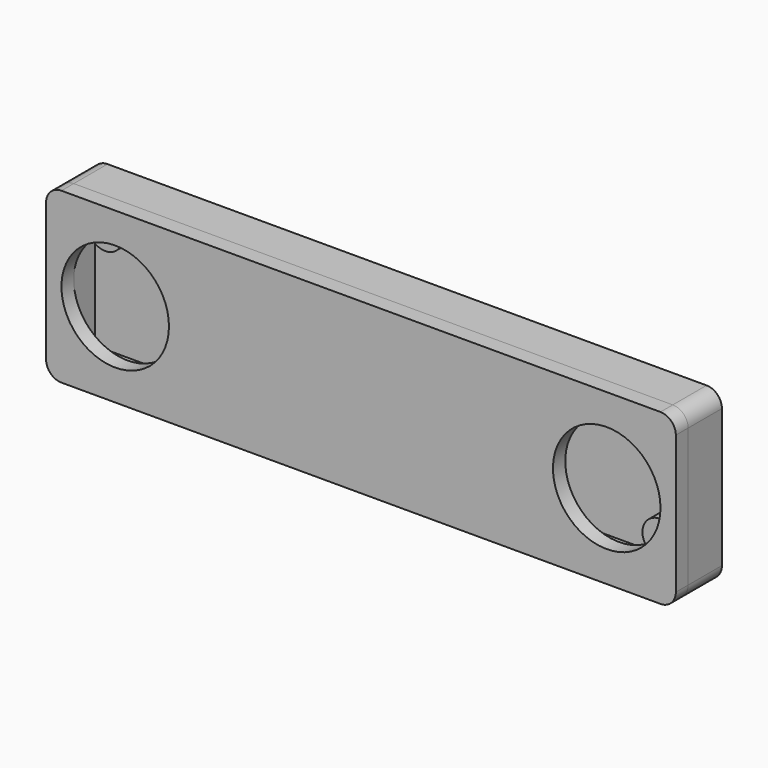
from build123d import *

# Parameters (mm, degrees)
F0_W      = 82
F0_H      = 22
F2_DEPTH  = 2
F1_R      = 2.25
F3_DEPTH  = 2
F4_W      = 82
F4_H      = 22
F4_W_2    = 78
F4_H_2    = 18
F5_DEPTH  = 3.5
F6_W      = 12
F6_H      = 2.5
F7_DEPTH  = 5.5
F8_R      = 2
F9_W      = 82
F9_H      = 22
F10_DEPTH = 2
F11_R     = 2
F12_R     = 7
F13_DEPTH = 2


with BuildPart() as f2:
    # F0 (on Front) → F2 (new body)
    with BuildSketch(Plane.XZ):
        Rectangle(F0_W, F0_H)
    extrude(amount=-F2_DEPTH)

    # F1 (on Front) → F3 (join)
    with BuildSketch(Plane.XZ):
        with Locations((-36.1, 5.85)):
            Circle(F1_R)
        with Locations((36.1, -5.85)):
            Circle(F1_R)
    extrude(amount=F3_DEPTH)

    # F4 (on face) → F5 (join)
    with BuildSketch(Plane.XZ):
        Rectangle(F4_W, F4_H)
        Rectangle(F4_W_2, F4_H_2, mode=Mode.SUBTRACT)
    extrude(amount=F5_DEPTH)

    # F6 (on face) → F7 (cut, through all)
    with BuildSketch(Plane.XZ.offset(3.5)):
        with Locations((0, -10)):
            Rectangle(F6_W, F6_H)
    extrude(amount=-F7_DEPTH, mode=Mode.SUBTRACT)

    # F8
    f8_edges = [f2.edges().sort_by_distance(p)[0] for p in [
        (-41, -0.75, 11),
        (41, -0.75, 11),
        (41, -0.75, -11),
        (-41, -0.75, -11),
    ]]
    fillet(f8_edges, radius=F8_R)


with BuildPart() as f10:
    # F9 (on face) → F10 (new body)
    with BuildSketch(Plane.XZ.offset(3.5)):
        Rectangle(F9_W, F9_H)
    extrude(amount=F10_DEPTH)

    # F11
    f11_edges = [f10.edges().sort_by_distance(p)[0] for p in [
        (41, -4.5, 11),
        (41, -4.5, -11),
        (-41, -4.5, -11),
        (-41, -4.5, 11),
    ]]
    fillet(f11_edges, radius=F11_R)

    # F12 (on face) → F13 (cut)
    with BuildSketch(Plane.XZ.offset(5.5)):
        with Locations((-32, 0)):
            Circle(F12_R)
        with Locations((32, 0)):
            Circle(F12_R)
    extrude(amount=-F13_DEPTH, mode=Mode.SUBTRACT)


solid = Compound([f2.part, f10.part])
